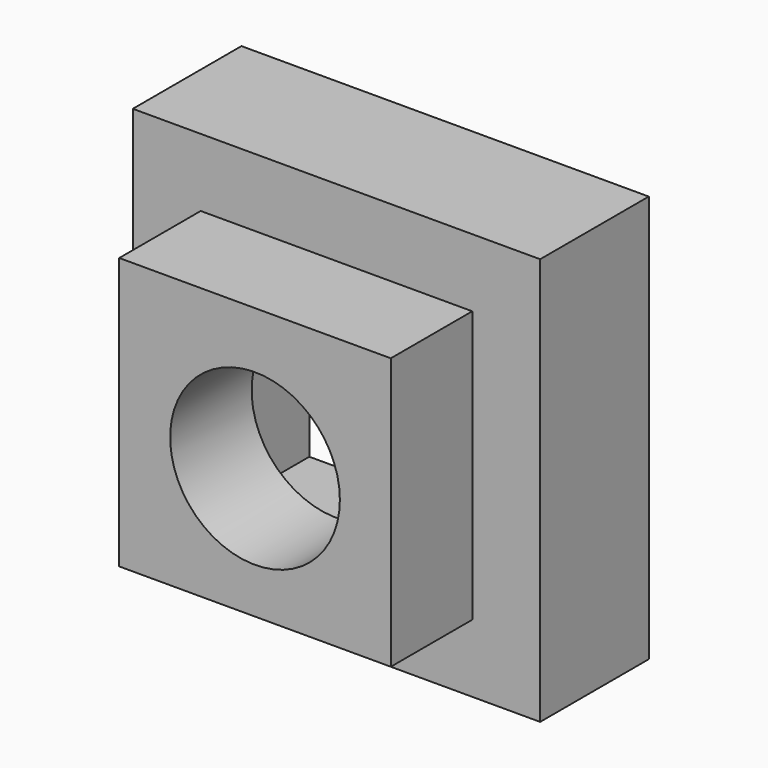
from build123d import *

# Parameters (mm, degrees)
F0_W     = 101.6
F0_H     = 101.6
F0_R     = 31.75
F1_DEPTH = 38.1
F0_W_2   = 152.4
F0_H_2   = 152.4
F2_DEPTH = 50.8


with BuildPart() as f1:
    # F0 (on Front) → F1 (new body)
    with BuildSketch(Plane.XZ):
        Rectangle(F0_W, F0_H)
        with Locations((0, -2.028638)):
            Circle(F0_R, mode=Mode.SUBTRACT)
    extrude(amount=F1_DEPTH)


with BuildPart() as f2:
    # F0 (on Front) → F2 (new body)
    with BuildSketch(Plane.XZ):
        Rectangle(F0_W_2, F0_H_2)
        Rectangle(F0_W, F0_H, mode=Mode.SUBTRACT)
    extrude(amount=-F2_DEPTH)


solid = Compound([f1.part, f2.part])
